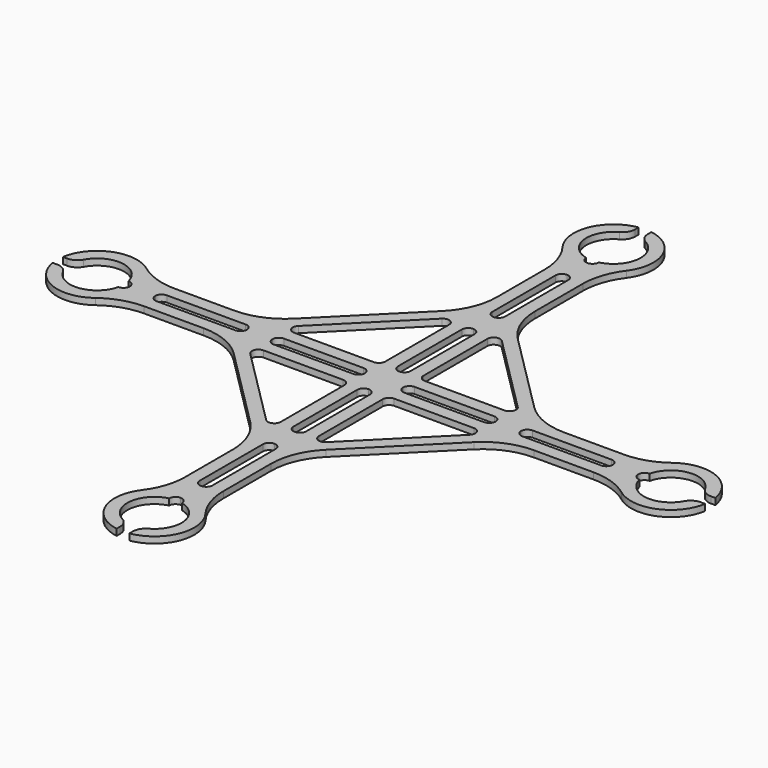
from build123d import *

# Parameters (mm, degrees)
PAD_DEPTH   = 1
FILLET_R    = 2
FILLET001_R = 10
FILLET002_R = 1


with BuildPart() as fillet002:
    # Sketch → Pad (new body)
    with BuildSketch(Plane.XY):
        with BuildLine():
            ThreePointArc((-16.5, 1), (-17.207107, 0.707107), (-17.5, 0))
            Line((-17.5, 0), (-21.5, 0))
            ThreePointArc((-21.5, 0), (-21.792893, 0.707107), (-22.5, 1))
            Line((-22.5, 1), (-34.869322, 1))
            ThreePointArc((-34.869322, 1), (-35.576429, 0.707107), (-35.869322, 0))
            Line((-39.869322, 0), (-35.869322, 0))
            ThreePointArc((-39.869322, 0), (-40.162215, 0.707107), (-40.869322, 1))
            ThreePointArc((-40.869322, 1), (-45, 4.25), (-49.130678, 1))
            Line((-49.130678, 1), (-51.169481, 1))
            ThreePointArc((-39.517072, 3), (-46.057279, 6.159924), (-51.169481, 1))
            Line((-39.517072, 3), (-21.748737, 3))
            Line((-21.748737, 3), (-3, 21.748737))
            Line((-3, 21.748737), (-3, 39.517072))
            ThreePointArc((-1, 51.169481), (-6.159924, 46.057279), (-3, 39.517072))
            Line((-1, 51.169481), (-1, 49.130678))
            ThreePointArc((-1, 49.130678), (-4.25, 45), (-1, 40.869322))
            ThreePointArc((-1, 40.869322), (-0.707107, 40.162215), (0, 39.869322))
            Line((0, 39.869322), (0, 35.869322))
            ThreePointArc((0, 35.869322), (-0.707107, 35.576429), (-1, 34.869322))
            Line((-1, 22.5), (-1, 34.869322))
            ThreePointArc((-1, 22.5), (-0.707107, 21.792893), (0, 21.5))
            Line((0, 21.5), (0, 17.5))
            ThreePointArc((0, 17.5), (-0.707107, 17.207107), (-1, 16.5))
            Line((-1, 4), (-1, 16.5))
            ThreePointArc((-1, 4), (-0.707107, 3.292893), (0, 3))
            Line((0, 3), (0, 0))
            Line((0, 0), (-3, 0))
            ThreePointArc((-3, 0), (-3.292893, 0.707107), (-4, 1))
            Line((-16.5, 1), (-4, 1))
        make_face()
        Polygon((-3, 3), (-18.92031, 3), (-3, 18.92031), align=None, mode=Mode.SUBTRACT)
    extrude(amount=PAD_DEPTH)

    # Fillet
    fillet_edges = [fillet002.edges().sort_by_distance(p)[0] for p in [
        (-49.130678, 1, 0.5),
        (-1, 49.130678, 0.5),
    ]]
    fillet(fillet_edges, radius=FILLET_R)

    # Fillet001
    fillet001_edges = [fillet002.edges().sort_by_distance(p)[0] for p in [
        (-3, 39.517072, 0.5),
        (-3, 21.748737, 0.5),
        (-21.748737, 3, 0.5),
        (-39.517072, 3, 0.5),
    ]]
    fillet(fillet001_edges, radius=FILLET001_R)

    # Fillet002
    fillet002_edges = [fillet002.edges().sort_by_distance(p)[0] for p in [
        (-3, 3, 0.5),
        (-3, 18.92031, 0.5),
        (-18.92031, 3, 0.5),
    ]]
    fillet(fillet002_edges, radius=FILLET002_R)


with BuildPart() as part_mirroring:
    # Part__Mirroring: instance of Fillet002
    add(fillet002.part.mirror(Plane(origin=(0, 0, 0), x_dir=(1, 0, 0), z_dir=(0, 1, 0))))


with BuildPart() as part_mirroring001:
    # Part__Mirroring001: instance of Part__Mirroring
    add(part_mirroring.part.mirror(Plane(origin=(0, 0, 0), x_dir=(0, -1, 0), z_dir=(1, 0, 0))))


with BuildPart() as fusion:
    # Part__Mirroring002: instance of Part__Mirroring001
    add(part_mirroring001.part.mirror(Plane(origin=(0, 0, 0), x_dir=(1, 0, 0), z_dir=(0, 1, 0))))

    # Fusion: union Part__Mirroring001, Fillet002, Part__Mirroring
    add(part_mirroring001.part)
    add(fillet002.part)
    add(part_mirroring.part)


solid = fusion.part
